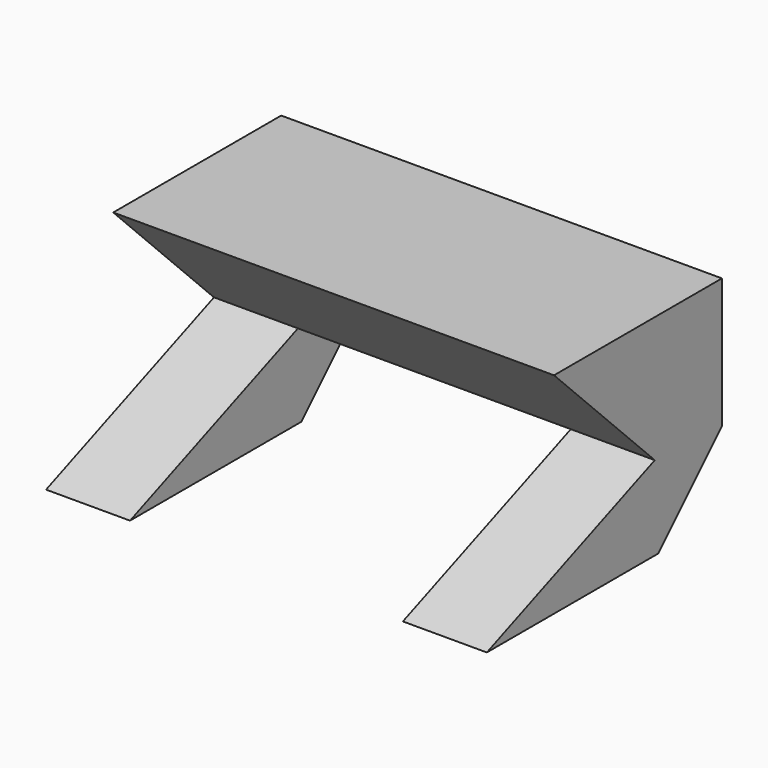
from build123d import *

# Parameters (mm, degrees)
F0_W     = 105
F0_H     = 70
F1_DEPTH = 50
F3_DEPTH = 105.001
F5_DEPTH = 105.001
F6_W     = 65
F6_H     = 40
F7_DEPTH = 70.001
F9_DEPTH = 105.001


with BuildPart() as f1:
    # F0 (on Top) → F1 (new body)
    with BuildSketch(Plane.XY):
        Rectangle(F0_W, F0_H)
    extrude(amount=F1_DEPTH)

    # F2 (on face) → F3 (cut, through all)
    with BuildSketch(Plane.YZ.offset(52.5)):
        Polygon((16, 0), (35, 0), (35, 19), align=None)
    extrude(amount=-F3_DEPTH, mode=Mode.SUBTRACT)

    # F4 (on face) → F5 (cut, through all)
    with BuildSketch(Plane.YZ.offset(52.5)):
        Polygon((-44.933475, 79.933475), (-35, 20), (15, 20), align=None)
    extrude(amount=-F5_DEPTH, mode=Mode.SUBTRACT)

    # F6 (on face) → F7 (cut, through all)
    with BuildSketch(Plane.XZ.offset(35)):
        Rectangle(F6_W, F6_H)
    extrude(amount=-F7_DEPTH, mode=Mode.SUBTRACT)

    # F8 (on face) → F9 (cut, through all)
    with BuildSketch(Plane(origin=(-52.5, 0, 0), x_dir=(0, -1, 0), z_dir=(-1, 0, 0))):
        Polygon((35, 0), (35, 20), (-15, 20), align=None)
    extrude(amount=-F9_DEPTH, mode=Mode.SUBTRACT)


solid = f1.part
